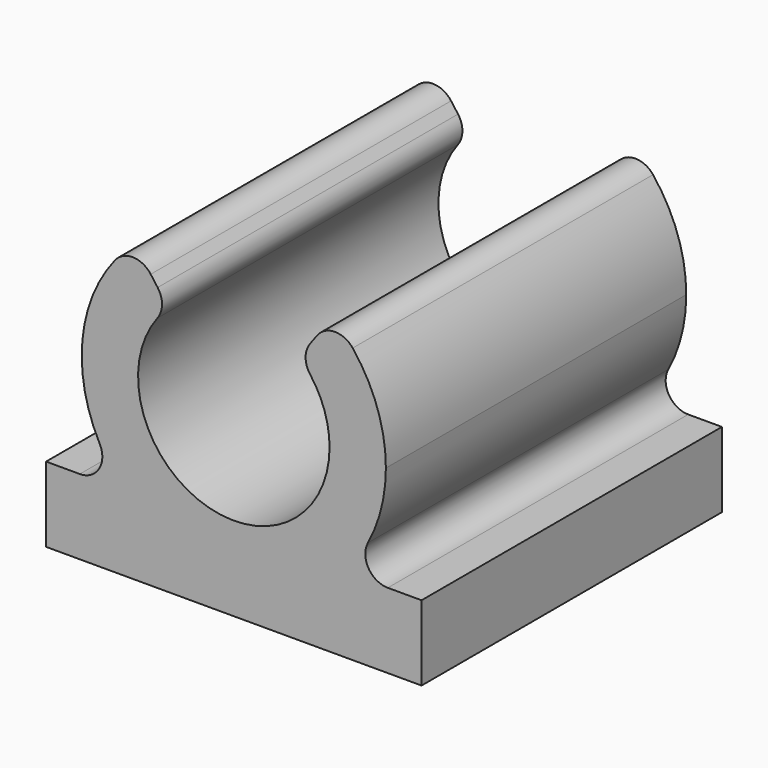
from build123d import *

# Parameters (mm, degrees)
F1_DEPTH = 10
F2_R     = 0.6
F3_R     = 0.6


with BuildPart() as f1:
    # F0 (on Front) → F1 (new body)
    with BuildSketch(Plane.XZ):
        with BuildLine():
            Line((2.934854861, 2), (-2.934854861, 2))
            ThreePointArc((-2.934854861, 2), (0, 0.7409007408), (2.934854861, 2))
        make_face()
        with BuildLine():
            Line((-2.934854861, 2), (-5, 2))
            Line((-5, 2), (-5, 0))
            Line((-5, 0), (5, 0))
            Line((5, 0), (5, 2))
            Line((5, 2), (2.934854861, 2))
            ThreePointArc((2.934854861, 2), (0, 0.7409007408), (-2.934854861, 2))
        make_face()
        with BuildLine():
            ThreePointArc((-2.6329280886, 7.8682680702), (-4.0446500812, 4.9990010065), (-2.934854861, 2))
            Line((-2.934854861, 2), (2.934854861, 2))
            ThreePointArc((2.934854861, 2), (3.7608949857, 3.288180239), (4.05, 4.7909007408))
            ThreePointArc((4.05, 4.7909007408), (3.6787130058, 6.4848814433), (2.6329280886, 7.8682680702))
            Line((2.6329280886, 7.8682680702), (1.7395072673, 6.6554689125))
            ThreePointArc((1.7395072673, 6.6554689125), (2.3386153523, 5.8074528714), (2.55, 4.7909007408))
            ThreePointArc((2.55, 4.7909007408), (-1.0165521306, 2.4522853885), (-1.7395072673, 6.6554689125))
            Line((-1.7395072673, 6.6554689125), (-2.6329280886, 7.8682680702))
        make_face()
    extrude(amount=F1_DEPTH)

    # F2
    f2_edges = [f1.edges().sort_by_distance(p)[0] for p in [
        (1.739507, -5, 6.655469),
        (-1.739507, -5, 6.655469),
        (-2.632928, -5, 7.868268),
        (2.632928, -5, 7.868268),
    ]]
    fillet(f2_edges, radius=F2_R)

    # F3
    f3_edges = [f1.edges().sort_by_distance(p)[0] for p in [
        (2.934855, -5, 2),
        (-2.934855, -5, 2),
    ]]
    fillet(f3_edges, radius=F3_R)


solid = f1.part
